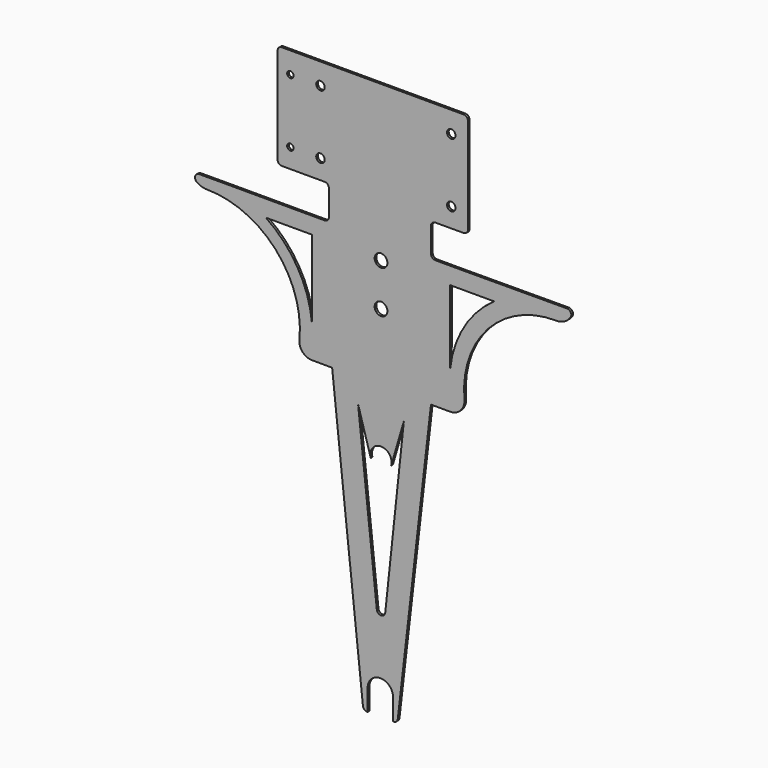
from build123d import *

# Parameters (mm, degrees)
F0_R     = 9.525
F0_R_2   = 4.7625
F0_R_3   = 6.35
F1_DEPTH = 3.175


with BuildPart() as f1:
    # F0 (on Front) → F1 (new body)
    with BuildSketch(Plane.XZ):
        with BuildLine():
            Line((25.045655, -440.212115), (74.606246, -10.776475))
            Line((74.606246, -10.776475), (-73.023894, -10.329813))
            Line((-73.023894, -10.329813), (-27.010583, -440.160007))
            ThreePointArc((-27.010583, -440.160007), (-24.941095, -444.207157), (-20.696658, -445.834102))
            Line((-20.696658, -445.834102), (-20.053171, -445.834102))
            Line((-20.053171, -445.834102), (-20.053171, -414.084102))
            ThreePointArc((-20.053171, -414.084102), (-1.003171, -395.034102), (18.046829, -414.084102))
            Line((18.046829, -414.084102), (18.046829, -445.834102))
            Line((18.046829, -445.834102), (18.737525, -445.834102))
            ThreePointArc((18.737525, -445.834102), (22.962429, -444.224639), (25.045655, -440.212115))
        make_face()
        with BuildLine():
            Line((-6.32504, -306.535779), (-24.381244, -137.864985))
            Line((-24.381244, -137.864985), (-33.503104, -52.653751))
            Line((-33.503104, -52.653751), (-34.255227, -45.627845))
            Line((-34.255227, -45.627845), (-15.339314, -110.402874))
            ThreePointArc((-15.339314, -110.402874), (-0.09162, -90.077848), (15.132605, -110.420459))
            Line((15.132605, -110.420459), (34.13484, -45.627845))
            Line((34.13484, -45.627845), (33.38561, -52.651402))
            Line((33.38561, -52.651402), (24.04055, -140.255525))
            Line((24.04055, -140.255525), (6.303062, -306.533431))
            ThreePointArc((6.303062, -306.533431), (-0.009934, -312.209874), (-6.32504, -306.535779))
        make_face(mode=Mode.SUBTRACT)
        with BuildLine():
            ThreePointArc((283.113571, 171.791383), (283.396441, 178.307404), (277.787406, 181.635659))
            Line((277.787406, 181.635659), (123.630658, 181.051308))
            ThreePointArc((123.630658, 181.051308), (123.618623, 181.051274), (123.606587, 181.051262))
            Line((123.606587, 181.051262), (80.956246, 181.051262))
            ThreePointArc((80.956246, 181.051262), (76.466118, 182.911134), (74.606246, 187.401262))
            Line((74.606246, 187.401262), (74.606246, 224.240675))
            ThreePointArc((74.606246, 224.240675), (76.46202, 228.726701), (80.94465, 230.590665))
            Line((80.94465, 230.590665), (123.407974, 230.668213))
            ThreePointArc((123.407974, 230.668213), (127.890604, 232.532177), (129.746377, 237.018203))
            Line((129.746377, 237.018203), (129.746377, 332.519098))
            Line((129.746377, 332.519098), (129.746377, 380.139775))
            ThreePointArc((129.746377, 380.139775), (127.886505, 384.629903), (123.396377, 386.489775))
            Line((123.396377, 386.489775), (-110.029623, 386.489775))
            Line((-110.029623, 386.489775), (-148.129623, 386.489775))
            ThreePointArc((-148.129623, 386.489775), (-152.619751, 384.629903), (-154.479623, 380.139775))
            Line((-154.479623, 380.139775), (-154.479623, 236.828389))
            ThreePointArc((-154.479623, 236.828389), (-152.619751, 232.338261), (-148.129623, 230.478389))
            Line((-148.129623, 230.478389), (-110.029623, 230.478389))
            Line((-110.029623, 230.478389), (-84.143754, 230.478389))
            ThreePointArc((-84.143754, 230.478389), (-79.653625, 228.618517), (-77.793754, 224.128389))
            Line((-77.793754, 224.128389), (-77.793754, 186.028389))
            ThreePointArc((-77.793754, 186.028389), (-79.653625, 181.538261), (-84.143754, 179.678389))
            Line((-84.143754, 179.678389), (-116.379623, 179.678389))
            Line((-116.379623, 179.678389), (-234.864242, 179.692387))
            Line((-234.864242, 179.692387), (-271.483406, 179.553577))
            ThreePointArc((-271.483406, 179.553577), (-277.502393, 175.153997), (-275.191033, 168.065829))
            ThreePointArc((-275.191033, 168.065829), (-268.123306, 164.463433), (-260.288993, 163.217018))
            ThreePointArc((-260.288993, 163.217018), (-157.167464, 117.40772), (-121.820214, 10.24843))
            ThreePointArc((-121.820214, 10.24843), (-117.099081, -4.08894), (-103.313719, -10.238169))
            Line((-103.313719, -10.238169), (-73.023894, -10.329813))
            Line((-73.023894, -10.329813), (74.606246, -10.776475))
            Line((74.606246, -10.776475), (103.112156, -10.862721))
            ThreePointArc((103.112156, -10.862721), (118.963009, -3.924558), (124.520268, 12.461549))
            ThreePointArc((124.520268, 12.461549), (160.203696, 116.857109), (261.585693, 160.370679))
            ThreePointArc((261.585693, 160.370679), (273.808739, 163.330633), (283.113571, 171.791383))
        make_face()
        with BuildLine():
            Line((-103.257282, 154.791078), (-103.257282, 39.461342))
            ThreePointArc((-103.257282, 39.461342), (-124.759996, 104.793935), (-171.993459, 154.791078))
            Line((-171.993459, 154.791078), (-103.257282, 154.791078))
        make_face(mode=Mode.SUBTRACT)
        with Locations((0, 90.778389)):
            Circle(F0_R, mode=Mode.SUBTRACT)
        with Locations((0, 154.278389)):
            Circle(F0_R, mode=Mode.SUBTRACT)
        with Locations((-135.429623, 259.494098)):
            Circle(F0_R_2, mode=Mode.SUBTRACT)
        with Locations((-90.424, 259.494098)):
            Circle(F0_R_3, mode=Mode.SUBTRACT)
        with Locations((-135.429623, 354.744098)):
            Circle(F0_R_2, mode=Mode.SUBTRACT)
        with Locations((-90.424, 354.744098)):
            Circle(F0_R_3, mode=Mode.SUBTRACT)
        with BuildLine():
            Line((103.051167, 44.596632), (103.176985, 155.552762))
            Line((103.176985, 155.552762), (168.951373, 155.552762))
            ThreePointArc((168.951373, 155.552762), (124.191688, 107.754936), (103.176985, 45.73523))
            ThreePointArc((103.176985, 45.73523), (103.113024, 45.166047), (103.051167, 44.596632))
        make_face(mode=Mode.SUBTRACT)
        with BuildLine():
            ThreePointArc((74.500873, 184.222761), (74.606246, 184.226262), (74.71162, 184.222761))
            Line((74.71162, 184.222761), (74.500873, 184.222761))
        make_face(mode=Mode.SUBTRACT)
        with Locations((104.902, 259.494098)):
            Circle(F0_R_3, mode=Mode.SUBTRACT)
        with Locations((104.902, 354.744098)):
            Circle(F0_R_3, mode=Mode.SUBTRACT)
    extrude(amount=F1_DEPTH)


solid = f1.part
